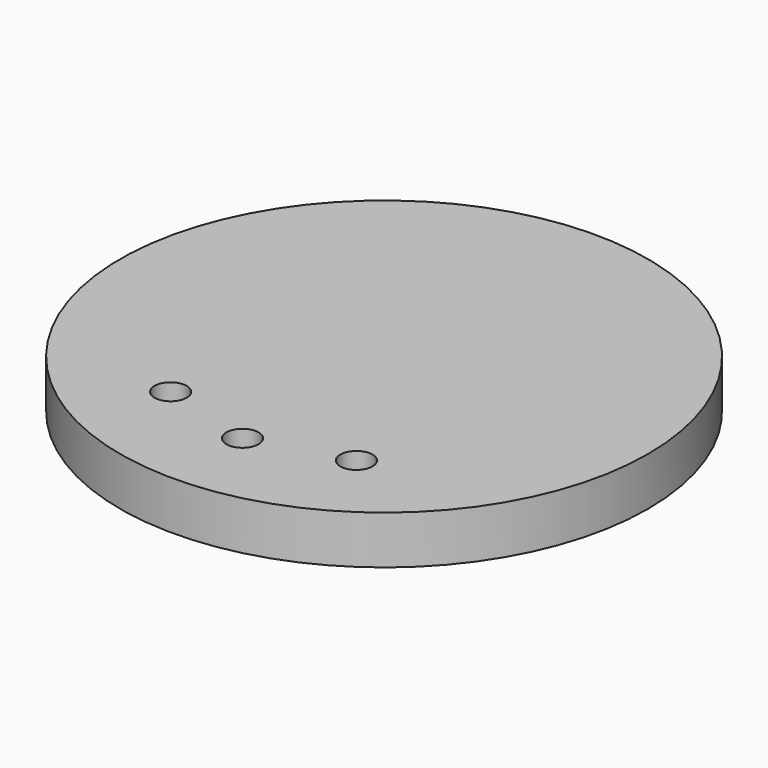
from build123d import *

# Parameters (mm, degrees)
SKETCH_R     = 8.2
PAD_DEPTH    = 1.5
SKETCH001_R  = 0.5
POCKET_DEPTH = 1.501


with BuildPart() as part:
    # Sketch → Pad (new body)
    with BuildSketch(Plane.XY):
        Circle(SKETCH_R)
    extrude(amount=PAD_DEPTH)

    # Sketch001 (on Face3 of Pad) → Pocket (cut, through all)
    with BuildSketch(Plane.XY.offset(1.5)):
        with Locations((0, -5.5)):
            Circle(SKETCH001_R)
        with Locations((2.886274, -4.681818)):
            Circle(SKETCH001_R)
        with Locations((-2.886274, -4.681818)):
            Circle(SKETCH001_R)
    extrude(amount=-POCKET_DEPTH, mode=Mode.SUBTRACT)


solid = part.part
